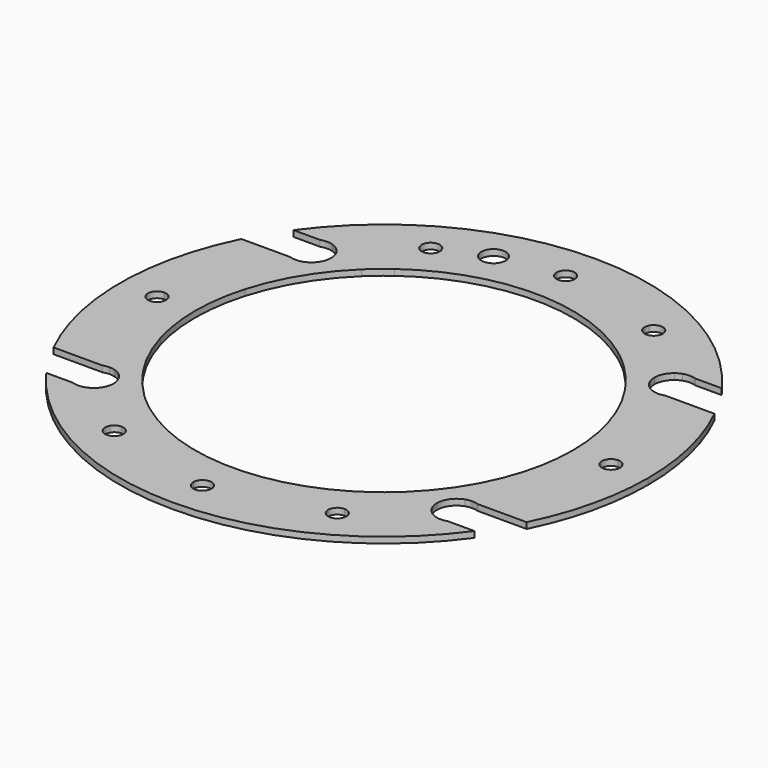
from build123d import *

# Parameters (mm, degrees)
F1_DEPTH = 2


with BuildPart() as f1:
    # F0 (on Top) → F1 (new body)
    with BuildSketch(Plane.XY):
        with BuildLine():
            ThreePointArc((39.7444489138, 62.7662374325), (48.4949826486, 56.4517818988), (56.25072261, 48.9489366399))
            ThreePointArc((56.25072261, 48.9489366399), (57.1629943627, 49.5491889391), (58.1628805597, 49.9882449339))
            ThreePointArc((58.1628805597, 49.9882449339), (60.2670431009, 50.3382449339), (62.3712056422, 49.9882449339))
            Line((62.3712056422, 49.9882449339), (71.1075096636, 49.9882449339))
            ThreePointArc((71.1075096636, 49.9882449339), (0.2670431009, 86.2149821287), (-70.5734234617, 49.9882449339))
            Line((-70.5734234617, 49.9882449339), (-61.8371194403, 49.9882449339))
            ThreePointArc((-61.8371194403, 49.9882449339), (-59.7329568991, 50.3382449339), (-57.6287943578, 49.9882449339))
            ThreePointArc((-57.6287943578, 49.9882449339), (-56.6289081608, 49.5491889391), (-55.7166364081, 48.9489366399))
            ThreePointArc((-55.7166364081, 48.9489366399), (-47.9608964467, 56.4517818988), (-39.210362712, 62.7662374325))
            ThreePointArc((-39.210362712, 62.7662374325), (-38.0999813971, 66.9046437634), (-33.9845676129, 65.7118642328))
            ThreePointArc((-33.9845676129, 65.7118642328), (-29.5146570092, 67.8187069008), (-24.9159238599, 69.6271704072))
            ThreePointArc((-24.9159238599, 69.6271704072), (-22.2511598208, 74.7016983457), (-17.2493627904, 71.9028007682))
            ThreePointArc((-17.2493627904, 71.9028007682), (-10.040168129, 73.2628053376), (-2.7327040585, 73.9132428466))
            ThreePointArc((-2.7327040585, 73.9132428466), (0.2475684804, 76.9521280563), (3.2670431009, 73.9521912671))
            ThreePointArc((3.2670431009, 73.9521912671), (3.2669798901, 73.9327166465), (3.2667902604, 73.9132428466))
            ThreePointArc((3.2667902604, 73.9132428466), (19.3387910188, 71.5123271502), (34.5186538148, 65.7118642328))
            ThreePointArc((34.5186538148, 65.7118642328), (37.8934493863, 67.2004280253), (40.1609606052, 64.2912253535))
            ThreePointArc((40.1609606052, 64.2912253535), (40.0549599941, 63.5008029746), (39.7444489138, 62.7662374325))
        make_face()
        with BuildLine():
            Line((-33.6268744033, 64.2912253535), (34.1609606052, 64.2912253535))
            ThreePointArc((34.1609606052, 64.2912253535), (34.2517579334, 65.0237141345), (34.5186538148, 65.7118642328))
            ThreePointArc((34.5186538148, 65.7118642328), (19.3387910188, 71.5123271502), (3.2667902604, 73.9132428466))
            ThreePointArc((3.2667902604, 73.9132428466), (0.2670431009, 70.9521912671), (-2.7327040585, 73.9132428466))
            ThreePointArc((-2.7327040585, 73.9132428466), (-10.040168129, 73.2628053376), (-17.2493627904, 71.9028007682))
            ThreePointArc((-17.2493627904, 71.9028007682), (-17.1471933384, 71.3894027327), (-17.1129413209, 70.8670590345))
            ThreePointArc((-17.1129413209, 70.8670590345), (-20.4852193108, 66.9166204414), (-24.9159238599, 69.6271704072))
            ThreePointArc((-24.9159238599, 69.6271704072), (-29.5146570092, 67.8187069008), (-33.9845676129, 65.7118642328))
            ThreePointArc((-33.9845676129, 65.7118642328), (-33.7176717315, 65.0237141345), (-33.6268744033, 64.2912253535))
        make_face()
        with BuildLine():
            ThreePointArc((-36.6268744033, 49.2871185703), (0.2670431009, 61.3382449339), (37.1609606052, 49.2871185703))
            Line((37.1609606052, 49.2871185703), (37.1609606052, 61.2912253535))
            ThreePointArc((37.1609606052, 61.2912253535), (35.0396402617, 62.1699050099), (34.1609606052, 64.2912253535))
            Line((34.1609606052, 64.2912253535), (-33.6268744033, 64.2912253535))
            ThreePointArc((-33.6268744033, 64.2912253535), (-34.5055540598, 62.1699050099), (-36.6268744033, 61.2912253535))
            Line((-36.6268744033, 61.2912253535), (-36.6268744033, 49.2871185703))
        make_face()
        with BuildLine():
            ThreePointArc((-43.1063358313, 43.8382449339), (-39.9589718059, 46.6725184699), (-36.6268744033, 49.2871185703))
            Line((-36.6268744033, 49.2871185703), (-36.6268744033, 61.2912253535))
            ThreePointArc((-36.6268744033, 61.2912253535), (-38.1143279719, 61.6859457367), (-39.210362712, 62.7662374325))
            ThreePointArc((-39.210362712, 62.7662374325), (-47.9608964467, 56.4517818988), (-55.7166364081, 48.9489366399))
            ThreePointArc((-55.7166364081, 48.9489366399), (-53.8867579976, 46.6793641507), (-53.2329568991, 43.8382449339))
            Line((-53.2329568991, 43.8382449339), (-43.1063358313, 43.8382449339))
        make_face()
        with BuildLine():
            ThreePointArc((-59.7329568991, 16.3382449339), (-53.217313191, 31.1751222109), (-43.1063358313, 43.8382449339))
            Line((-43.1063358313, 43.8382449339), (-53.2329568991, 43.8382449339))
            ThreePointArc((-53.2329568991, 43.8382449339), (-54.4449016555, 40.0585000032), (-57.6287943578, 37.6882449339))
            ThreePointArc((-57.6287943578, 37.6882449339), (-58.6664204487, 37.4263419402), (-59.7329568991, 37.3382449339))
            Line((-59.7329568991, 37.3382449339), (-59.7329568991, 16.3382449339))
        make_face()
        with BuildLine():
            ThreePointArc((-59.7329568991, -18.6617550661), (-62.2329568991, -1.1617550661), (-59.7329568991, 16.3382449339))
            Line((-59.7329568991, 16.3382449339), (-59.7329568991, 37.3382449339))
            ThreePointArc((-59.7329568991, 37.3382449339), (-60.7994933494, 37.4263419402), (-61.8371194403, 37.6882449339))
            Line((-61.8371194403, 37.6882449339), (-64.0441635012, 37.6882449339))
            ThreePointArc((-64.0441635012, 37.6882449339), (-71.6943261151, 20.4441500334), (-74.8079548118, 1.8379920933))
            ThreePointArc((-74.8079548118, 1.8379920933), (-72.7118569492, 0.9457499444), (-71.8469032323, -1.1617550661))
            ThreePointArc((-71.8469032323, -1.1617550661), (-72.7118569492, -3.2692600767), (-74.8079548118, -4.1615022256))
            ThreePointArc((-74.8079548118, -4.1615022256), (-71.6943261151, -22.7676601657), (-64.0441635012, -40.0117550661))
            Line((-64.0441635012, -40.0117550661), (-61.8371194403, -40.0117550661))
            ThreePointArc((-61.8371194403, -40.0117550661), (-60.7994933494, -39.7498520725), (-59.7329568991, -39.6617550661))
            Line((-59.7329568991, -39.6617550661), (-59.7329568991, -18.6617550661))
        make_face()
        with BuildLine():
            Line((-64.0441635012, 37.6882449339), (-77.9977107977, 37.6882449339))
            ThreePointArc((-77.9977107977, 37.6882449339), (-87.1096939106, -1.1674142446), (-77.9926777014, -40.0218927752))
            Line((-77.9926777014, -40.0218927752), (-77.9926777014, -40.0117550661))
            Line((-77.9926777014, -40.0117550661), (-64.0441635012, -40.0117550661))
            ThreePointArc((-64.0441635012, -40.0117550661), (-71.6943261151, -22.7676601657), (-74.8079548118, -4.1615022256))
            ThreePointArc((-74.8079548118, -4.1615022256), (-77.8469032323, -1.1617550661), (-74.8079548118, 1.8379920933))
            ThreePointArc((-74.8079548118, 1.8379920933), (-71.6943261151, 20.4441500334), (-64.0441635012, 37.6882449339))
        make_face()
        with BuildLine():
            Line((43.6404220332, 43.8382449339), (53.7670431009, 43.8382449339))
            ThreePointArc((53.7670431009, 43.8382449339), (54.4208441995, 46.6793641507), (56.25072261, 48.9489366399))
            ThreePointArc((56.25072261, 48.9489366399), (48.4949826486, 56.4517818988), (39.7444489138, 62.7662374325))
            ThreePointArc((39.7444489138, 62.7662374325), (38.6484141737, 61.6859457367), (37.1609606052, 61.2912253535))
            Line((37.1609606052, 61.2912253535), (37.1609606052, 49.2871185703))
            ThreePointArc((37.1609606052, 49.2871185703), (40.4930580078, 46.6725184699), (43.6404220332, 43.8382449339))
        make_face()
        with BuildLine():
            ThreePointArc((58.1628805597, 37.6882449339), (54.9789878574, 40.0585000032), (53.7670431009, 43.8382449339))
            Line((53.7670431009, 43.8382449339), (43.6404220332, 43.8382449339))
            ThreePointArc((43.6404220332, 43.8382449339), (53.7513993929, 31.1751222109), (60.2670431009, 16.3382449339))
            Line((60.2670431009, 16.3382449339), (60.2670431009, 37.3382449339))
            ThreePointArc((60.2670431009, 37.3382449339), (59.2005066506, 37.4263419402), (58.1628805597, 37.6882449339))
        make_face()
        with BuildLine():
            ThreePointArc((62.3712056422, 37.6882449339), (61.3335795513, 37.4263419402), (60.2670431009, 37.3382449339))
            Line((60.2670431009, 37.3382449339), (60.2670431009, 16.3382449339))
            ThreePointArc((60.2670431009, 16.3382449339), (62.1388864548, 7.6770796987), (62.7670431009, -1.1617550661))
            ThreePointArc((62.7670431009, -1.1617550661), (62.1388864548, -10.000589831), (60.2670431009, -18.6617550661))
            Line((60.2670431009, -18.6617550661), (60.2670431009, -39.6617550661))
            ThreePointArc((60.2670431009, -39.6617550661), (61.3335795513, -39.7498520725), (62.3712056422, -40.0117550661))
            Line((62.3712056422, -40.0117550661), (64.5782497031, -40.0117550661))
            ThreePointArc((64.5782497031, -40.0117550661), (72.228412317, -22.7676601657), (75.3420410137, -4.1615022256))
            ThreePointArc((75.3420410137, -4.1615022256), (72.3809894341, -1.1617550661), (75.3420410137, 1.8379920933))
            ThreePointArc((75.3420410137, 1.8379920933), (72.228412317, 20.4441500334), (64.5782497031, 37.6882449339))
            Line((64.5782497031, 37.6882449339), (62.3712056422, 37.6882449339))
        make_face()
        with BuildLine():
            Line((78.5317969996, 37.6882449339), (64.5782497031, 37.6882449339))
            ThreePointArc((64.5782497031, 37.6882449339), (72.228412317, 20.4441500334), (75.3420410137, 1.8379920933))
            ThreePointArc((75.3420410137, 1.8379920933), (77.4884944447, 0.9732912169), (78.3809894341, -1.1617550661))
            ThreePointArc((78.3809894341, -1.1617550661), (77.4884944447, -3.2968013492), (75.3420410137, -4.1615022256))
            ThreePointArc((75.3420410137, -4.1615022256), (72.228412317, -22.7676601657), (64.5782497031, -40.0117550661))
            Line((64.5782497031, -40.0117550661), (78.5317969996, -40.0117550661))
            ThreePointArc((78.5317969996, -40.0117550661), (85.3352893384, -21.1138899118), (87.6437802958, -1.1617550661))
            ThreePointArc((87.6437802958, -1.1617550661), (85.3352893384, 18.7903797795), (78.5317969996, 37.6882449339))
        make_face()
        with BuildLine():
            Line((60.2670431009, -39.6617550661), (60.2670431009, -18.6617550661))
            ThreePointArc((60.2670431009, -18.6617550661), (53.7513993929, -33.4986323432), (43.6404220332, -46.1617550661))
            Line((43.6404220332, -46.1617550661), (53.7670431009, -46.1617550661))
            ThreePointArc((53.7670431009, -46.1617550661), (54.9789878574, -42.3820101355), (58.1628805597, -40.0117550661))
            ThreePointArc((58.1628805597, -40.0117550661), (59.2005066506, -39.7498520725), (60.2670431009, -39.6617550661))
        make_face()
        with BuildLine():
            Line((53.7670431009, -46.1617550661), (43.6404220332, -46.1617550661))
            ThreePointArc((43.6404220332, -46.1617550661), (40.4930580078, -48.9960286021), (37.1609606052, -51.6106287026))
            Line((37.1609606052, -51.6106287026), (37.1609606052, -63.6147354858))
            ThreePointArc((37.1609606052, -63.6147354858), (38.6484141737, -64.009455869), (39.7444489138, -65.0897475648))
            ThreePointArc((39.7444489138, -65.0897475648), (48.4949826486, -58.7752920311), (56.25072261, -51.2724467721))
            ThreePointArc((56.25072261, -51.2724467721), (54.4208441995, -49.002874283), (53.7670431009, -46.1617550661))
        make_face()
        with BuildLine():
            ThreePointArc((58.1628805597, -52.3117550661), (57.1629943627, -51.8726990713), (56.25072261, -51.2724467721))
            ThreePointArc((56.25072261, -51.2724467721), (48.4949826486, -58.7752920311), (39.7444489138, -65.0897475648))
            ThreePointArc((39.7444489138, -65.0897475648), (40.0549599941, -65.8243131069), (40.1609606052, -66.6147354858))
            ThreePointArc((40.1609606052, -66.6147354858), (37.8934493863, -69.5239381576), (34.5186538148, -68.035374365))
            ThreePointArc((34.5186538148, -68.035374365), (19.3387910188, -73.8358372824), (3.2667902604, -76.2367529789))
            ThreePointArc((3.2667902604, -76.2367529789), (3.2669798901, -76.2562267788), (3.2670431009, -76.2757013993))
            ThreePointArc((3.2670431009, -76.2757013993), (0.2475684804, -79.2756381885), (-2.7327040585, -76.2367529789))
            ThreePointArc((-2.7327040585, -76.2367529789), (-18.8047048169, -73.8358372824), (-33.9845676129, -68.035374365))
            ThreePointArc((-33.9845676129, -68.035374365), (-38.0999813971, -69.2281538956), (-39.210362712, -65.0897475648))
            ThreePointArc((-39.210362712, -65.0897475648), (-47.9608964467, -58.7752920311), (-55.7166364081, -51.2724467721))
            ThreePointArc((-55.7166364081, -51.2724467721), (-56.6289081608, -51.8726990713), (-57.6287943578, -52.3117550661))
            ThreePointArc((-57.6287943578, -52.3117550661), (-59.7329568991, -52.6617550661), (-61.8371194403, -52.3117550661))
            Line((-61.8371194403, -52.3117550661), (-70.5734234617, -52.3117550661))
            ThreePointArc((-70.5734234617, -52.3117550661), (0.2670431009, -88.538492261), (71.1075096636, -52.3117550661))
            Line((71.1075096636, -52.3117550661), (62.3712056422, -52.3117550661))
            ThreePointArc((62.3712056422, -52.3117550661), (60.2670431009, -52.6617550661), (58.1628805597, -52.3117550661))
        make_face()
        with BuildLine():
            Line((37.1609606052, -63.6147354858), (37.1609606052, -51.6106287026))
            ThreePointArc((37.1609606052, -51.6106287026), (0.2670431009, -63.6617550661), (-36.6268744033, -51.6106287026))
            Line((-36.6268744033, -51.6106287026), (-36.6268744033, -63.6147354858))
            ThreePointArc((-36.6268744033, -63.6147354858), (-34.5055540598, -64.4934151422), (-33.6268744033, -66.6147354858))
            Line((-33.6268744033, -66.6147354858), (34.1609606052, -66.6147354858))
            ThreePointArc((34.1609606052, -66.6147354858), (35.0396402617, -64.4934151422), (37.1609606052, -63.6147354858))
        make_face()
        with BuildLine():
            ThreePointArc((34.5186538148, -68.035374365), (34.2517579334, -67.3472242668), (34.1609606052, -66.6147354858))
            Line((34.1609606052, -66.6147354858), (-33.6268744033, -66.6147354858))
            ThreePointArc((-33.6268744033, -66.6147354858), (-33.7176717315, -67.3472242668), (-33.9845676129, -68.035374365))
            ThreePointArc((-33.9845676129, -68.035374365), (-18.8047048169, -73.8358372824), (-2.7327040585, -76.2367529789))
            ThreePointArc((-2.7327040585, -76.2367529789), (0.2670431009, -73.2757013993), (3.2667902604, -76.2367529789))
            ThreePointArc((3.2667902604, -76.2367529789), (19.3387910188, -73.8358372824), (34.5186538148, -68.035374365))
        make_face()
        with BuildLine():
            ThreePointArc((-36.6268744033, -51.6106287026), (-39.9589718059, -48.9960286021), (-43.1063358313, -46.1617550661))
            Line((-43.1063358313, -46.1617550661), (-53.2329568991, -46.1617550661))
            ThreePointArc((-53.2329568991, -46.1617550661), (-53.8867579976, -49.002874283), (-55.7166364081, -51.2724467721))
            ThreePointArc((-55.7166364081, -51.2724467721), (-47.9608964467, -58.7752920311), (-39.210362712, -65.0897475648))
            ThreePointArc((-39.210362712, -65.0897475648), (-38.1143279719, -64.009455869), (-36.6268744033, -63.6147354858))
            Line((-36.6268744033, -63.6147354858), (-36.6268744033, -51.6106287026))
        make_face()
        with BuildLine():
            Line((-53.2329568991, -46.1617550661), (-43.1063358313, -46.1617550661))
            ThreePointArc((-43.1063358313, -46.1617550661), (-53.217313191, -33.4986323432), (-59.7329568991, -18.6617550661))
            Line((-59.7329568991, -18.6617550661), (-59.7329568991, -39.6617550661))
            ThreePointArc((-59.7329568991, -39.6617550661), (-58.6664204487, -39.7498520725), (-57.6287943578, -40.0117550661))
            ThreePointArc((-57.6287943578, -40.0117550661), (-54.4449016555, -42.3820101355), (-53.2329568991, -46.1617550661))
        make_face()
    extrude(amount=F1_DEPTH)


solid = f1.part
